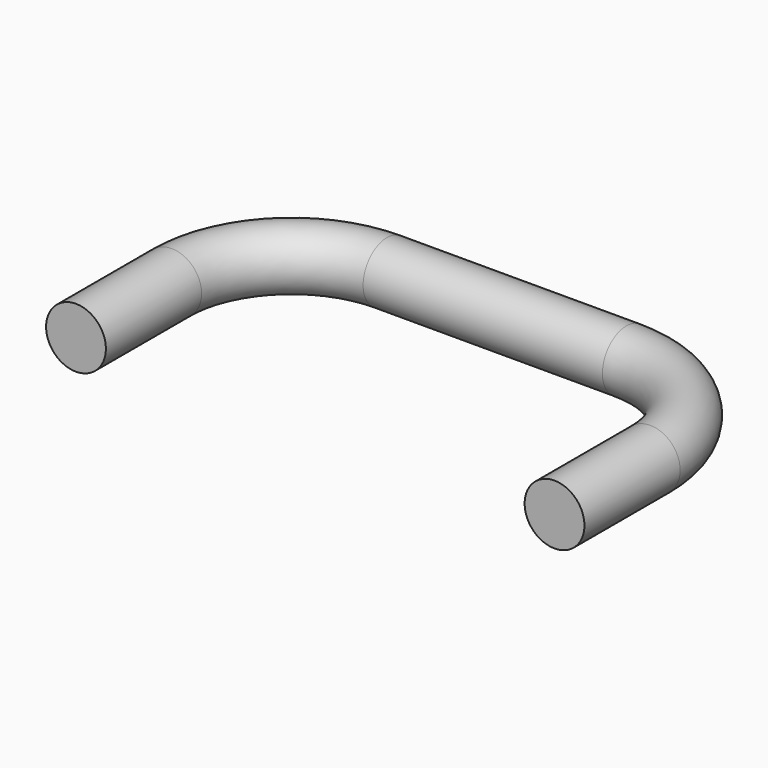
from build123d import *

# Parameters (mm, degrees)
F1_R = 3.175


with BuildPart() as f2:
    # F2: sweep along a path in F0
    with BuildLine(Plane.XY) as f2_path:
        Line((25.4, 0), (25.4, 12.7))
        ThreePointArc((25.4, 12.7), (21.680256, 21.680256), (12.7, 25.4))
        Line((12.7, 25.4), (-12.7, 25.4))
        ThreePointArc((-12.7, 25.4), (-21.680256, 21.680256), (-25.4, 12.7))
        Line((-25.4, 12.7), (-25.4, 0))
    # F1 (on Front) → F2 (sweep)
    with BuildSketch(Plane.XZ):
        with Locations((25.4, 0)):
            Circle(F1_R)
    sweep(path=f2_path.line)


solid = f2.part
